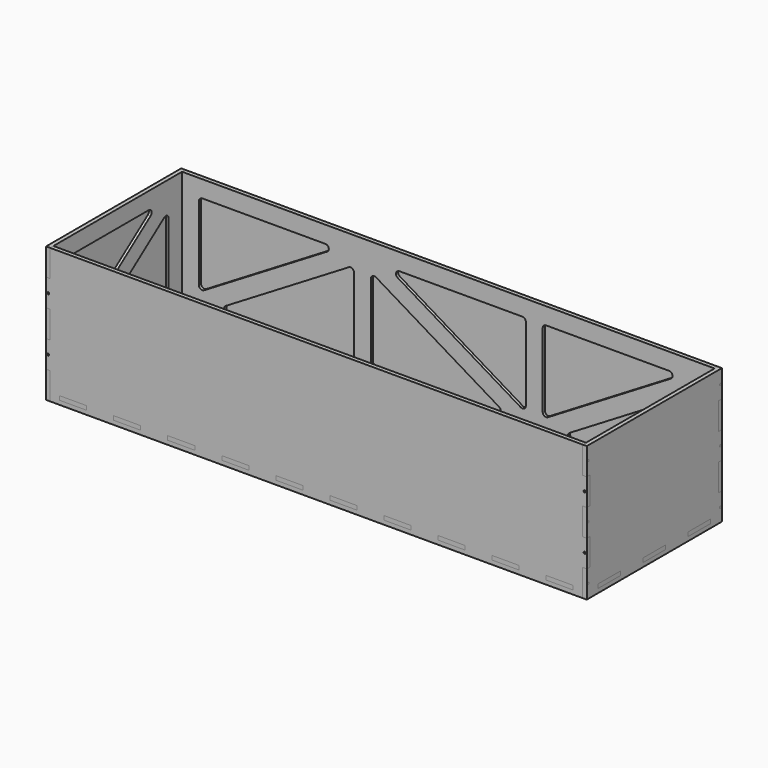
from build123d import *

# Parameters (mm, degrees)
F4_R      = 3
F4_W      = 83.3333333333
F4_H      = 12
F5_DEPTH  = 12
F6_DEPTH  = 8
F7_ANGLE  = 180
F9_W      = 1600
F9_H      = 400
F9_W_2    = 80
F9_H_2    = 12
F9_R      = 3
F10_DEPTH = 12
F11_START = -4
F11_DEPTH = 8
F13_ANGLE = 180
F15_W     = 1600
F15_H     = 500
F16_DEPTH = 12


with BuildPart() as f5:
    # F4 (on Right) → F5 (new body)
    with BuildSketch(Plane.YZ):
        Polygon((-500, 0), (0, 0), (0, 80), (-12, 80), (-12, 160), (0, 160), (0, 240), (-12, 240), (-12, 320), (0, 320), (0, 400), (-500, 400), (-500, 320), (-488, 320), (-488, 240), (-500, 240), (-500, 160), (-488, 160), (-488, 80), (-500, 80), align=None)
        with Locations((-494, 40)):
            Circle(F4_R, mode=Mode.SUBTRACT)
        with Locations((-416.6666666667, 18)):
            Rectangle(F4_W, F4_H, mode=Mode.SUBTRACT)
        with BuildLine():
            Line((-134.7712480837, 74), (-428, 74))
            ThreePointArc((-428, 74), (-435.0710678119, 76.9289321881), (-438, 84))
            Line((-438, 84), (-438, 299.2423817258))
            ThreePointArc((-438, 299.2423817258), (-432.5181003349, 308.1635234332), (-422.0826461273, 307.303704393))
            Line((-422.0826461273, 307.303704393), (-128.853894211, 92.0613226672))
            ThreePointArc((-128.853894211, 92.0613226672), (-125.2682689016, 80.8865795877), (-134.7712480837, 74))
        make_face(mode=Mode.SUBTRACT)
        with Locations((-250, 18)):
            Rectangle(F4_W, F4_H, mode=Mode.SUBTRACT)
        with Locations((-83.3333333333, 18)):
            Rectangle(F4_W, F4_H, mode=Mode.SUBTRACT)
        with Locations((-6, 40)):
            Circle(F4_R, mode=Mode.SUBTRACT)
        with Locations((-494, 200)):
            Circle(F4_R, mode=Mode.SUBTRACT)
        with Locations((-494, 360)):
            Circle(F4_R, mode=Mode.SUBTRACT)
        with BuildLine():
            ThreePointArc((-371.146105789, 331.9386773328), (-374.7317310984, 343.1134204123), (-365.2287519163, 350))
            Line((-365.2287519163, 350), (-72, 350))
            ThreePointArc((-72, 350), (-64.9289321881, 347.0710678119), (-62, 340))
            Line((-62, 340), (-62, 124.7576182742))
            ThreePointArc((-62, 124.7576182742), (-67.4818996651, 115.8364765668), (-77.9173538727, 116.696295607))
            Line((-77.9173538727, 116.696295607), (-371.146105789, 331.9386773328))
        make_face(mode=Mode.SUBTRACT)
        with Locations((-6, 200)):
            Circle(F4_R, mode=Mode.SUBTRACT)
        with Locations((-6, 360)):
            Circle(F4_R, mode=Mode.SUBTRACT)
        with BuildLine():
            ThreePointArc((-438, 84), (-435.0710678119, 76.9289321881), (-428, 74))
            Line((-428, 74), (-134.7712480837, 74))
            ThreePointArc((-134.7712480837, 74), (-125.2682689016, 80.8865795877), (-128.853894211, 92.0613226672))
            Line((-128.853894211, 92.0613226672), (-422.0826461273, 307.303704393))
            ThreePointArc((-422.0826461273, 307.303704393), (-432.5181003349, 308.1635234332), (-438, 299.2423817258))
            Line((-438, 299.2423817258), (-438, 84))
        make_face()
        with BuildLine():
            Line((-72, 350), (-365.2287519163, 350))
            ThreePointArc((-365.2287519163, 350), (-374.7317310984, 343.1134204123), (-371.146105789, 331.9386773328))
            Line((-371.146105789, 331.9386773328), (-77.9173538727, 116.696295607))
            ThreePointArc((-77.9173538727, 116.696295607), (-67.4818996651, 115.8364765668), (-62, 124.7576182742))
            Line((-62, 124.7576182742), (-62, 340))
            ThreePointArc((-62, 340), (-64.9289321881, 347.0710678119), (-72, 350))
        make_face()
    extrude(amount=F5_DEPTH)

    # F4 (on Right) → F6 (cut)
    with BuildSketch(Plane.YZ):
        with BuildLine():
            ThreePointArc((-438, 84), (-435.0710678119, 76.9289321881), (-428, 74))
            Line((-428, 74), (-134.7712480837, 74))
            ThreePointArc((-134.7712480837, 74), (-125.2682689016, 80.8865795877), (-128.853894211, 92.0613226672))
            Line((-128.853894211, 92.0613226672), (-422.0826461273, 307.303704393))
            ThreePointArc((-422.0826461273, 307.303704393), (-432.5181003349, 308.1635234332), (-438, 299.2423817258))
            Line((-438, 299.2423817258), (-438, 84))
        make_face()
        with BuildLine():
            Line((-72, 350), (-365.2287519163, 350))
            ThreePointArc((-365.2287519163, 350), (-374.7317310984, 343.1134204123), (-371.146105789, 331.9386773328))
            Line((-371.146105789, 331.9386773328), (-77.9173538727, 116.696295607))
            ThreePointArc((-77.9173538727, 116.696295607), (-67.4818996651, 115.8364765668), (-62, 124.7576182742))
            Line((-62, 124.7576182742), (-62, 340))
            ThreePointArc((-62, 340), (-64.9289321881, 347.0710678119), (-72, 350))
        make_face()
    extrude(amount=F6_DEPTH, mode=Mode.SUBTRACT)


with BuildPart() as f7_1:
    # F7: copy of F5
    add(f5.part.rotate(Axis((0, -250, 200), (0, 0, -1)), F7_ANGLE))


with BuildPart() as f7_1_1:
    # F8: moved
    add(f7_1.part.moved(Location((-1576, 0, 0))))


with BuildPart() as f10:
    # F9 (on face) → F10 (new body)
    with BuildSketch(Plane(origin=(0, 0, 0), x_dir=(-1, 0, 0), z_dir=(0, 1, 0))):
        with Locations((788, 200)):
            Rectangle(F9_W, F9_H)
        with Locations((68, 18)):
            Rectangle(F9_W_2, F9_H_2, mode=Mode.SUBTRACT)
        with Locations((228, 18)):
            Rectangle(F9_W_2, F9_H_2, mode=Mode.SUBTRACT)
        with Locations((388, 18)):
            Rectangle(F9_W_2, F9_H_2, mode=Mode.SUBTRACT)
        with Locations((548, 18)):
            Rectangle(F9_W_2, F9_H_2, mode=Mode.SUBTRACT)
        with Locations((708, 18)):
            Rectangle(F9_W_2, F9_H_2, mode=Mode.SUBTRACT)
        with Locations((-6, 120)):
            Circle(F9_R, mode=Mode.SUBTRACT)
        with BuildLine():
            Line((50, 84), (50, 303.1344531631))
            ThreePointArc((50, 303.1344531631), (55.0785886798, 311.8396074189), (65.1559421236, 311.7027821028))
            Line((65.1559421236, 311.7027821028), (429.3214101821, 92.5683289397))
            ThreePointArc((429.3214101821, 92.5683289397), (433.8009049816, 81.3244897119), (424.1654680585, 74))
            Line((424.1654680585, 74), (60, 74))
            ThreePointArc((60, 74), (52.9289321881, 76.9289321881), (50, 84))
        make_face(mode=Mode.SUBTRACT)
        with Locations((868, 18)):
            Rectangle(F9_W_2, F9_H_2, mode=Mode.SUBTRACT)
        with Locations((1028, 18)):
            Rectangle(F9_W_2, F9_H_2, mode=Mode.SUBTRACT)
        with Locations((1188, 18)):
            Rectangle(F9_W_2, F9_H_2, mode=Mode.SUBTRACT)
        with Locations((1348, 18)):
            Rectangle(F9_W_2, F9_H_2, mode=Mode.SUBTRACT)
        with Locations((1508, 18)):
            Rectangle(F9_W_2, F9_H_2, mode=Mode.SUBTRACT)
        with BuildLine():
            Line((1017.3333333333, 303.1344531631), (1017.3333333333, 84))
            ThreePointArc((1017.3333333333, 84), (1014.4044011452, 76.9289321881), (1007.3333333333, 74))
            Line((1007.3333333333, 74), (643.1678652748, 74))
            ThreePointArc((643.1678652748, 74), (633.5324283518, 81.3244897119), (638.0119231513, 92.5683289397))
            Line((638.0119231513, 92.5683289397), (1002.1773912098, 311.7027821028))
            ThreePointArc((1002.1773912098, 311.7027821028), (1012.2547446535, 311.8396074189), (1017.3333333333, 303.1344531631))
        make_face(mode=Mode.SUBTRACT)
        with Locations((1582, 120)):
            Circle(F9_R, mode=Mode.SUBTRACT)
        with BuildLine():
            ThreePointArc((1067.3333333333, 303.1344531631), (1072.4119220132, 311.8396074189), (1082.4892754569, 311.7027821028))
            Line((1082.4892754569, 311.7027821028), (1446.6547435154, 92.5683289397))
            ThreePointArc((1446.6547435154, 92.5683289397), (1451.1342383149, 81.3244897119), (1441.4988013918, 74))
            Line((1441.4988013918, 74), (1077.3333333333, 74))
            ThreePointArc((1077.3333333333, 74), (1070.2622655215, 76.9289321881), (1067.3333333333, 84))
            Line((1067.3333333333, 84), (1067.3333333333, 303.1344531631))
        make_face(mode=Mode.SUBTRACT)
        with BuildLine():
            ThreePointArc((129.3452564846, 331.4316710603), (124.8657616851, 342.6755102881), (134.5011986082, 350))
            Line((134.5011986082, 350), (498.6666666667, 350))
            ThreePointArc((498.6666666667, 350), (505.7377344785, 347.0710678119), (508.6666666667, 340))
            Line((508.6666666667, 340), (508.6666666667, 120.8655468369))
            ThreePointArc((508.6666666667, 120.8655468369), (503.5880779868, 112.1603925811), (493.5107245431, 112.2972178972))
            Line((493.5107245431, 112.2972178972), (129.3452564846, 331.4316710603))
        make_face(mode=Mode.SUBTRACT)
        with Locations((-6, 280)):
            Circle(F9_R, mode=Mode.SUBTRACT)
        with BuildLine():
            Line((937.9880768487, 331.4316710603), (573.8226087902, 112.2972178972))
            ThreePointArc((573.8226087902, 112.2972178972), (563.7452553465, 112.1603925811), (558.6666666667, 120.8655468369))
            Line((558.6666666667, 120.8655468369), (558.6666666667, 340))
            ThreePointArc((558.6666666667, 340), (561.5955988548, 347.0710678119), (568.6666666667, 350))
            Line((568.6666666667, 350), (932.8321347252, 350))
            ThreePointArc((932.8321347252, 350), (942.4675716482, 342.6755102881), (937.9880768487, 331.4316710603))
        make_face(mode=Mode.SUBTRACT)
        with BuildLine():
            ThreePointArc((1146.6785898179, 331.4316710603), (1142.1990950184, 342.6755102881), (1151.8345319415, 350))
            Line((1151.8345319415, 350), (1516, 350))
            ThreePointArc((1516, 350), (1523.0710678119, 347.0710678119), (1526, 340))
            Line((1526, 340), (1526, 120.8655468369))
            ThreePointArc((1526, 120.8655468369), (1520.9214113202, 112.1603925811), (1510.8440578764, 112.2972178972))
            Line((1510.8440578764, 112.2972178972), (1146.6785898179, 331.4316710603))
        make_face(mode=Mode.SUBTRACT)
        with Locations((1582, 280)):
            Circle(F9_R, mode=Mode.SUBTRACT)
        with BuildLine():
            ThreePointArc((65.1559421236, 311.7027821028), (55.0785886798, 311.8396074189), (50, 303.1344531631))
            Line((50, 303.1344531631), (50, 84))
            ThreePointArc((50, 84), (52.9289321881, 76.9289321881), (60, 74))
            Line((60, 74), (424.1654680585, 74))
            ThreePointArc((424.1654680585, 74), (433.8009049816, 81.3244897119), (429.3214101821, 92.5683289397))
            Line((429.3214101821, 92.5683289397), (65.1559421236, 311.7027821028))
        make_face()
        with BuildLine():
            Line((498.6666666667, 350), (134.5011986082, 350))
            ThreePointArc((134.5011986082, 350), (124.8657616851, 342.6755102881), (129.3452564846, 331.4316710603))
            Line((129.3452564846, 331.4316710603), (493.5107245431, 112.2972178972))
            ThreePointArc((493.5107245431, 112.2972178972), (503.5880779868, 112.1603925811), (508.6666666667, 120.8655468369))
            Line((508.6666666667, 120.8655468369), (508.6666666667, 340))
            ThreePointArc((508.6666666667, 340), (505.7377344785, 347.0710678119), (498.6666666667, 350))
        make_face()
        with BuildLine():
            ThreePointArc((558.6666666667, 120.8655468369), (563.7452553465, 112.1603925811), (573.8226087902, 112.2972178972))
            Line((573.8226087902, 112.2972178972), (937.9880768487, 331.4316710603))
            ThreePointArc((937.9880768487, 331.4316710603), (942.4675716482, 342.6755102881), (932.8321347252, 350))
            Line((932.8321347252, 350), (568.6666666667, 350))
            ThreePointArc((568.6666666667, 350), (561.5955988548, 347.0710678119), (558.6666666667, 340))
            Line((558.6666666667, 340), (558.6666666667, 120.8655468369))
        make_face()
        with BuildLine():
            ThreePointArc((1007.3333333333, 74), (1014.4044011452, 76.9289321881), (1017.3333333333, 84))
            Line((1017.3333333333, 84), (1017.3333333333, 303.1344531631))
            ThreePointArc((1017.3333333333, 303.1344531631), (1012.2547446535, 311.8396074189), (1002.1773912098, 311.7027821028))
            Line((1002.1773912098, 311.7027821028), (638.0119231513, 92.5683289397))
            ThreePointArc((638.0119231513, 92.5683289397), (633.5324283518, 81.3244897119), (643.1678652748, 74))
            Line((643.1678652748, 74), (1007.3333333333, 74))
        make_face()
        with BuildLine():
            Line((1446.6547435154, 92.5683289397), (1082.4892754569, 311.7027821028))
            ThreePointArc((1082.4892754569, 311.7027821028), (1072.4119220132, 311.8396074189), (1067.3333333333, 303.1344531631))
            Line((1067.3333333333, 303.1344531631), (1067.3333333333, 84))
            ThreePointArc((1067.3333333333, 84), (1070.2622655215, 76.9289321881), (1077.3333333333, 74))
            Line((1077.3333333333, 74), (1441.4988013918, 74))
            ThreePointArc((1441.4988013918, 74), (1451.1342383149, 81.3244897119), (1446.6547435154, 92.5683289397))
        make_face()
        with BuildLine():
            Line((1516, 350), (1151.8345319415, 350))
            ThreePointArc((1151.8345319415, 350), (1142.1990950184, 342.6755102881), (1146.6785898179, 331.4316710603))
            Line((1146.6785898179, 331.4316710603), (1510.8440578764, 112.2972178972))
            ThreePointArc((1510.8440578764, 112.2972178972), (1520.9214113202, 112.1603925811), (1526, 120.8655468369))
            Line((1526, 120.8655468369), (1526, 340))
            ThreePointArc((1526, 340), (1523.0710678119, 347.0710678119), (1516, 350))
        make_face()
    extrude(amount=-F10_DEPTH)

    # F9 (on face) → F11 (cut)
    with BuildSketch(Plane(origin=(0, 0, 0), x_dir=(-1, 0, 0), z_dir=(0, 1, 0)).offset(F11_START)):
        with BuildLine():
            ThreePointArc((65.1559421236, 311.7027821028), (55.0785886798, 311.8396074189), (50, 303.1344531631))
            Line((50, 303.1344531631), (50, 84))
            ThreePointArc((50, 84), (52.9289321881, 76.9289321881), (60, 74))
            Line((60, 74), (424.1654680585, 74))
            ThreePointArc((424.1654680585, 74), (433.8009049816, 81.3244897119), (429.3214101821, 92.5683289397))
            Line((429.3214101821, 92.5683289397), (65.1559421236, 311.7027821028))
        make_face()
        with BuildLine():
            Line((498.6666666667, 350), (134.5011986082, 350))
            ThreePointArc((134.5011986082, 350), (124.8657616851, 342.6755102881), (129.3452564846, 331.4316710603))
            Line((129.3452564846, 331.4316710603), (493.5107245431, 112.2972178972))
            ThreePointArc((493.5107245431, 112.2972178972), (503.5880779868, 112.1603925811), (508.6666666667, 120.8655468369))
            Line((508.6666666667, 120.8655468369), (508.6666666667, 340))
            ThreePointArc((508.6666666667, 340), (505.7377344785, 347.0710678119), (498.6666666667, 350))
        make_face()
        with BuildLine():
            ThreePointArc((558.6666666667, 120.8655468369), (563.7452553465, 112.1603925811), (573.8226087902, 112.2972178972))
            Line((573.8226087902, 112.2972178972), (937.9880768487, 331.4316710603))
            ThreePointArc((937.9880768487, 331.4316710603), (942.4675716482, 342.6755102881), (932.8321347252, 350))
            Line((932.8321347252, 350), (568.6666666667, 350))
            ThreePointArc((568.6666666667, 350), (561.5955988548, 347.0710678119), (558.6666666667, 340))
            Line((558.6666666667, 340), (558.6666666667, 120.8655468369))
        make_face()
        with BuildLine():
            ThreePointArc((1007.3333333333, 74), (1014.4044011452, 76.9289321881), (1017.3333333333, 84))
            Line((1017.3333333333, 84), (1017.3333333333, 303.1344531631))
            ThreePointArc((1017.3333333333, 303.1344531631), (1012.2547446535, 311.8396074189), (1002.1773912098, 311.7027821028))
            Line((1002.1773912098, 311.7027821028), (638.0119231513, 92.5683289397))
            ThreePointArc((638.0119231513, 92.5683289397), (633.5324283518, 81.3244897119), (643.1678652748, 74))
            Line((643.1678652748, 74), (1007.3333333333, 74))
        make_face()
        with BuildLine():
            Line((1446.6547435154, 92.5683289397), (1082.4892754569, 311.7027821028))
            ThreePointArc((1082.4892754569, 311.7027821028), (1072.4119220132, 311.8396074189), (1067.3333333333, 303.1344531631))
            Line((1067.3333333333, 303.1344531631), (1067.3333333333, 84))
            ThreePointArc((1067.3333333333, 84), (1070.2622655215, 76.9289321881), (1077.3333333333, 74))
            Line((1077.3333333333, 74), (1441.4988013918, 74))
            ThreePointArc((1441.4988013918, 74), (1451.1342383149, 81.3244897119), (1446.6547435154, 92.5683289397))
        make_face()
        with BuildLine():
            Line((1516, 350), (1151.8345319415, 350))
            ThreePointArc((1151.8345319415, 350), (1142.1990950184, 342.6755102881), (1146.6785898179, 331.4316710603))
            Line((1146.6785898179, 331.4316710603), (1510.8440578764, 112.2972178972))
            ThreePointArc((1510.8440578764, 112.2972178972), (1520.9214113202, 112.1603925811), (1526, 120.8655468369))
            Line((1526, 120.8655468369), (1526, 340))
            ThreePointArc((1526, 340), (1523.0710678119, 347.0710678119), (1516, 350))
        make_face()
    extrude(amount=-F11_DEPTH, mode=Mode.SUBTRACT)

    # F12: cut F5, F7_1
    add(f5.part, mode=Mode.SUBTRACT)
    add(f7_1_1.part, mode=Mode.SUBTRACT)


with BuildPart() as f13_1:
    # F13: copy of F10
    add(f10.part.rotate(Axis((-788, 0, 200), (0, 0, -1)), F13_ANGLE))


with BuildPart() as f13_1_1:
    # F14: moved
    add(f13_1.part.moved(Location((0, -500, 0))))


with BuildPart() as f16:
    # F15 (on face) → F16 (new body)
    with BuildSketch(Plane(origin=(0, 0, 24), x_dir=(1, 0, 0), z_dir=(0, 0, -1))):
        with Locations((-788, 250)):
            Rectangle(F15_W, F15_H)
    extrude(amount=F16_DEPTH)

    # F17: cut F7_1, F10, F13_1, F5
    add(f7_1_1.part, mode=Mode.SUBTRACT)
    add(f10.part, mode=Mode.SUBTRACT)
    add(f13_1_1.part, mode=Mode.SUBTRACT)
    add(f5.part, mode=Mode.SUBTRACT)


solid = Compound([f5.part, f7_1_1.part, f10.part, f13_1_1.part, f16.part])
